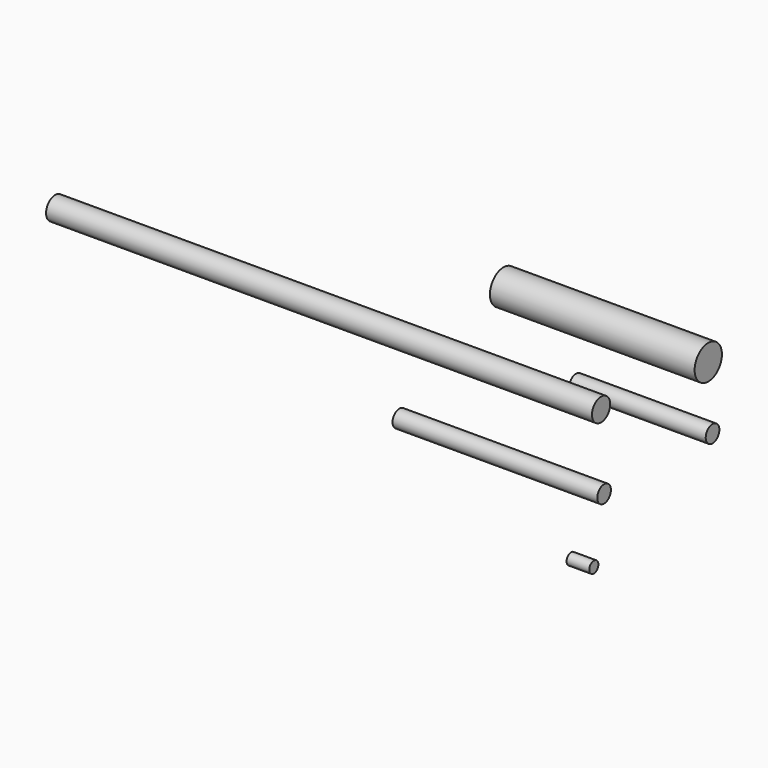
from build123d import *

# Parameters (mm, degrees)
F0_R     = 6.35
F1_DEPTH = 304.8
F2_R     = 9.525
F3_DEPTH = 114.3
F4_R     = 4.7625
F5_DEPTH = 114.3
F6_R     = 4.7625
F7_DEPTH = 76.2
F8_R     = 3.175
F9_DEPTH = 12.7


with BuildPart() as f1:
    # F0 (on Right) → F1 (new body)
    with BuildSketch(Plane.YZ):
        with Locations((-36.056649, 58.852796)):
            Circle(F0_R)
    extrude(amount=-F1_DEPTH)


with BuildPart() as f3:
    # F2 (on Right) → F3 (new body)
    with BuildSketch(Plane.YZ):
        with Locations((38.738549, 51.701061)):
            Circle(F2_R)
    extrude(amount=-F3_DEPTH)


with BuildPart() as f5:
    # F4 (on Right) → F5 (new body)
    with BuildSketch(Plane.YZ):
        with Locations((-33.970725, 16.53838)):
            Circle(F4_R)
    extrude(amount=-F5_DEPTH)


with BuildPart() as f7:
    # F6 (on Right) → F7 (new body)
    with BuildSketch(Plane.YZ):
        with Locations((41.718438, 15.346425)):
            Circle(F6_R)
    extrude(amount=-F7_DEPTH)


with BuildPart() as f9:
    # F8 (on Right) → F9 (new body)
    with BuildSketch(Plane.YZ):
        with Locations((-41.122459, -16.53838)):
            Circle(F8_R)
    extrude(amount=-F9_DEPTH)


solid = Compound([f1.part, f3.part, f5.part, f7.part, f9.part])
